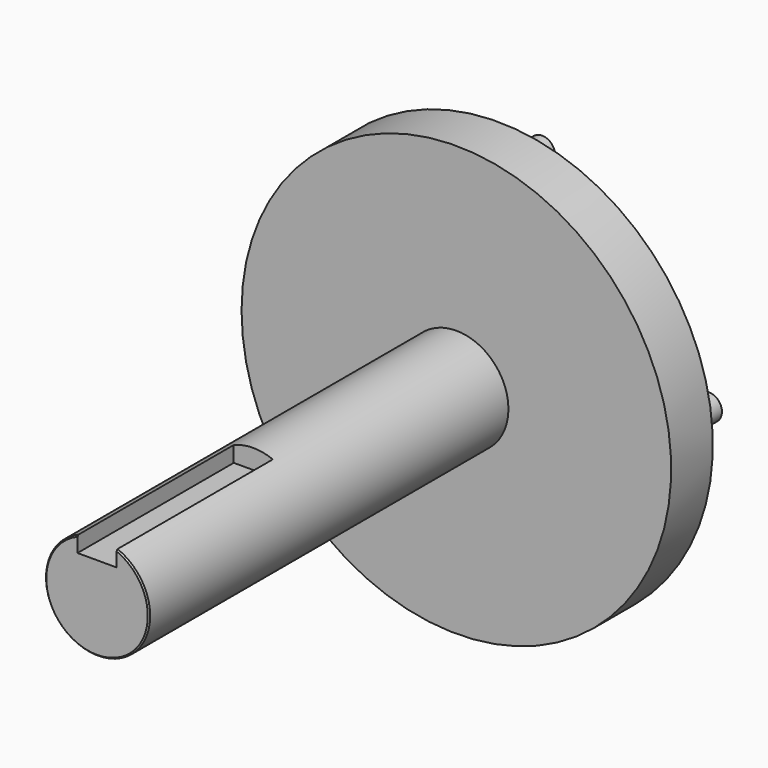
from build123d import *

# Parameters (mm, degrees)
F0_R     = 4
F1_DEPTH = 34.5
F3_SIZE  = 0.1
F2_W     = 3
F2_H     = 1.5
F4_DEPTH = 15
F5_R     = 16.5
F6_DEPTH = 4
F7_R     = 1
F8_DEPTH = 4


with BuildPart() as f1:
    # F0 (on Front) → F1 (new body)
    with BuildSketch(Plane.XZ):
        Circle(F0_R)
    extrude(amount=-F1_DEPTH)

    # F3
    f3_edges = [f1.edges().sort_by_distance(p)[0] for p in [
        (-4, 0, 0),
    ]]
    chamfer(f3_edges, length=F3_SIZE)

    # F2 (on Front) → F4 (cut)
    with BuildSketch(Plane.XZ):
        with Locations((0, 3.25)):
            Rectangle(F2_W, F2_H)
    extrude(amount=-F4_DEPTH, mode=Mode.SUBTRACT)

    # F5 (on face) → F6 (join)
    with BuildSketch(Plane(origin=(0, 34.5, 0), x_dir=(-1, 0, 0), z_dir=(0, 1, 0))):
        Circle(F5_R)
    extrude(amount=F6_DEPTH)

    # F7 (on face) → F8 (join)
    with BuildSketch(Plane(origin=(0, 38.5, 0), x_dir=(-1, 0, 0), z_dir=(0, 1, 0))):
        with Locations((-0.185544, 13)):
            Circle(F7_R)
        with Locations((-13, -0.185544)):
            Circle(F7_R)
        with Locations((0.185544, -13)):
            Circle(F7_R)
        with Locations((13, 0.185544)):
            Circle(F7_R)
    extrude(amount=F8_DEPTH)


solid = f1.part
